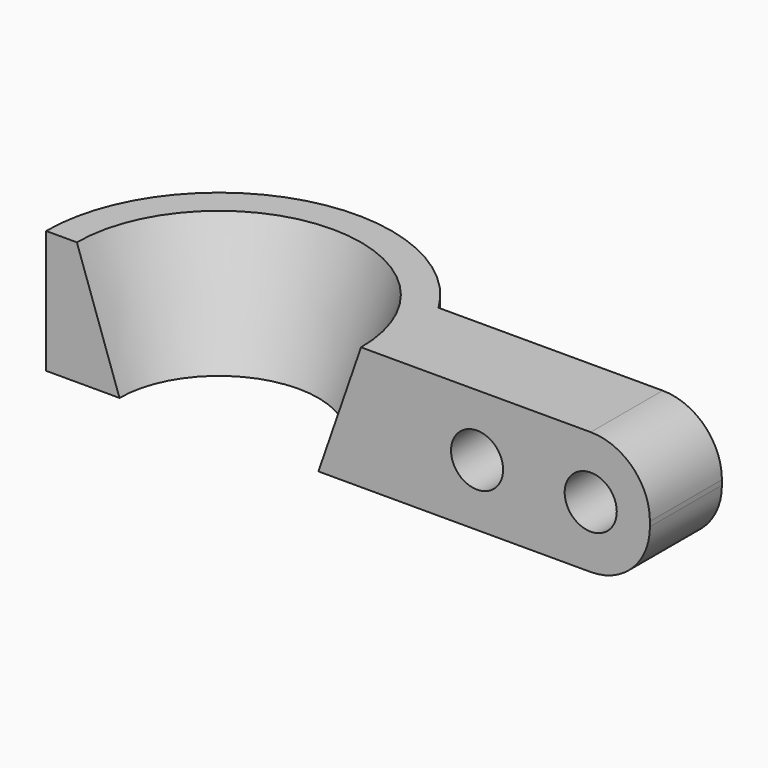
from build123d import *

# Parameters (mm, degrees)
F1_DEPTH = 52
F2_R     = 11
F3_DEPTH = 38
F6_R     = 25


with BuildPart() as f1:
    # F0 (on Top) → F1 (new body)
    with BuildSketch(Plane.XY):
        with BuildLine():
            Line((182, 38), (62.329768, 38))
            ThreePointArc((62.329768, 38), (-19.734829, 70.281836), (-73, 0))
            Line((-73, 0), (182, 0))
            Line((182, 0), (182, 38))
        make_face()
    extrude(amount=F1_DEPTH)

    # F2 (on face) → F3 (cut)
    with BuildSketch(Plane.XZ):
        with Locations((109, 26)):
            Circle(F2_R)
        with Locations((157, 26)):
            Circle(F2_R)
    extrude(amount=-F3_DEPTH, mode=Mode.SUBTRACT)

    # F4 (on face) → F5 (revolve, cut)
    with BuildSketch(Plane.XZ):
        Polygon((0, 0), (0, 52), (-60, 52), (-42, 0), align=None)
    revolve(axis=Axis((0, 0, 26), (0, 0, 1)), mode=Mode.SUBTRACT)

    # F6
    f6_edges = [f1.edges().sort_by_distance(p)[0] for p in [
        (182, 19, 52),
        (182, 19, 0),
    ]]
    fillet(f6_edges, radius=F6_R)


solid = f1.part
